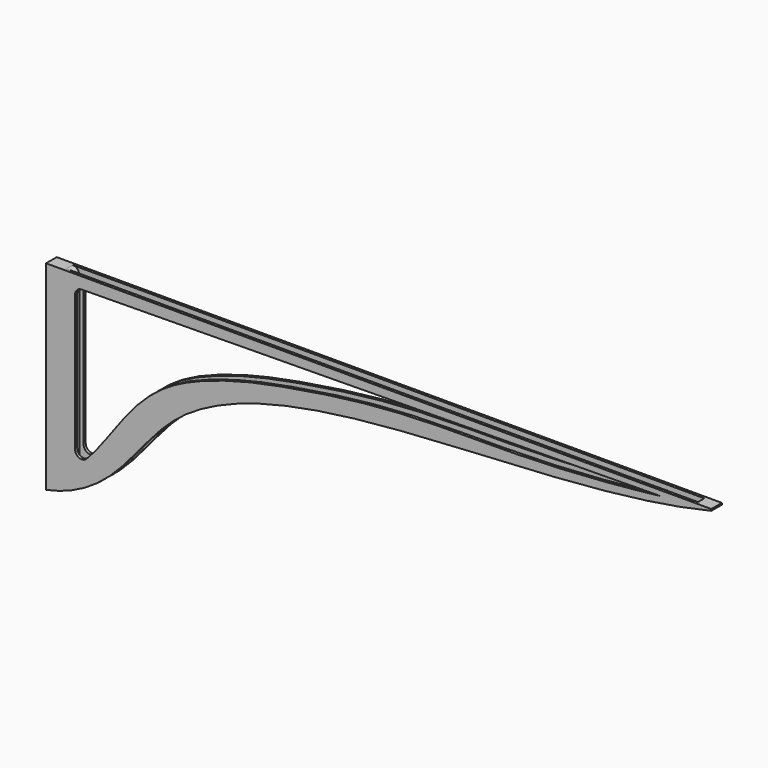
from build123d import *

# Parameters (mm, degrees)
F1_DEPTH = 10
F2_W     = 469.7814304382
F2_H     = 6
F3_DEPTH = 150.0010001
F5_DEPTH = 10.0010001
F6_R     = 5
F7_R     = 5
F8_R     = 5


with BuildPart() as f1:
    # F0 (on Front) → F1 (new body)
    with BuildSketch(Plane.XZ):
        with BuildLine():
            Line((490, 0), (0, 0))
            Line((0, 0), (0, -150))
            add(Edge.make_bspline(
                [(500, -1.2464135636), (423.341869886, -19.8031308411), (250.2658375262, -16.8992488433), (81.5432391027, -54.6469734319), (51.3085768442, -139.1068788057), (0, -150)],
                knots=[0.0086627482, 0.0086627482, 0.0086627482, 0.0086627482, 0.4048702251, 0.7224990596, 1, 1, 1, 1], degree=3))
            Line((500, -1.2464135636), (500, 0))
            Line((500, 0), (490, 0))
        make_face()
    extrude(amount=F1_DEPTH)

    # F2 (on face) → F3 (cut, through all)
    with BuildSketch(Plane.XY):
        with Locations((253.4761568531, -5)):
            Rectangle(F2_W, F2_H)
    extrude(amount=-F3_DEPTH, mode=Mode.SUBTRACT)

    # F4 (on face) → F5 (cut, through all)
    with BuildSketch(Plane.XZ.offset(10)):
        with BuildLine():
            Line((462.436914444, -3.8619996049), (21.8095220625, -8.7202985799))
            Line((21.8095220625, -8.7202985799), (21.8095220625, -125.4975497723))
            add(Edge.make_bspline(
                [(21.8095220625, -125.4975497723), (32.2172713088, -122.0650961288), (58.781928291, -78.761668078), (92.6378446485, -47.690248313), (138.7348383302, -32.0204151339), (174.8869961471, -23.9386402043), (258.5337585047, -10.39108363), (349.9261967141, -12.3776767113), (414.1226552212, -8.9335112217), (447.8440516291, -5.407736286), (462.436914444, -3.8619996049)],
                knots=[0, 0, 0, 0, 0.1222772174, 0.2384113906, 0.3482499842, 0.44801593, 0.5974551949, 0.7568224846, 0.8878563996, 1, 1, 1, 1], degree=3))
        make_face()
    extrude(amount=-F5_DEPTH, mode=Mode.SUBTRACT)

    # F6
    f6_edges = [f1.edges().sort_by_distance(p)[0] for p in [
        (21.809522, -9, -125.49755),
        (21.809522, -1, -125.49755),
    ]]
    fillet(f6_edges, radius=F6_R)

    # F7
    f7_edges = [f1.edges().sort_by_distance(p)[0] for p in [
        (21.809522, -9, -8.720299),
        (21.809522, -1, -8.720299),
    ]]
    fillet(f7_edges, radius=F7_R)

    # F8
    f8_edges = [f1.edges().sort_by_distance(p)[0] for p in [
        (18.585442, -5, -144.255465),
        (18.585442, -5, 0),
    ]]
    fillet(f8_edges, radius=F8_R)


solid = f1.part
